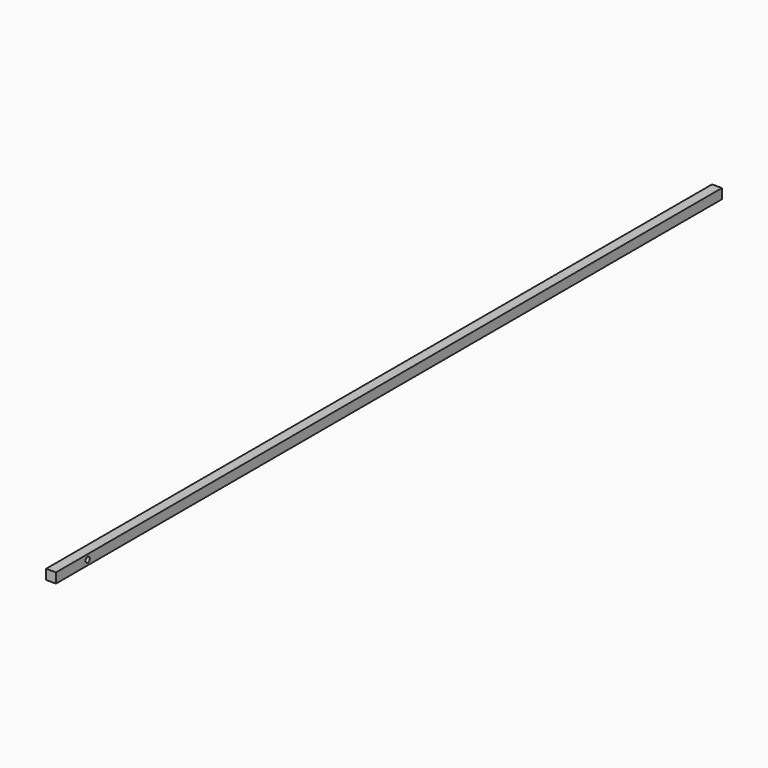
from build123d import *

# Parameters (mm, degrees)
F0_W     = 25.4
F0_H     = 25.4
F1_DEPTH = 2133.6
F3_D     = 13.49248


with BuildPart() as f1:
    # F0 (on Front) → F1 (new body)
    with BuildSketch(Plane.XZ):
        with Locations((-7.9043106856, 6.35)):
            Rectangle(F0_W, F0_H)
    extrude(amount=F1_DEPTH)

    # F3 (through all)
    with Locations(Plane.YZ.offset(4.7956893144)):
        with Locations((-2032, 6.35)):
            Hole(F3_D / 2)


solid = f1.part
